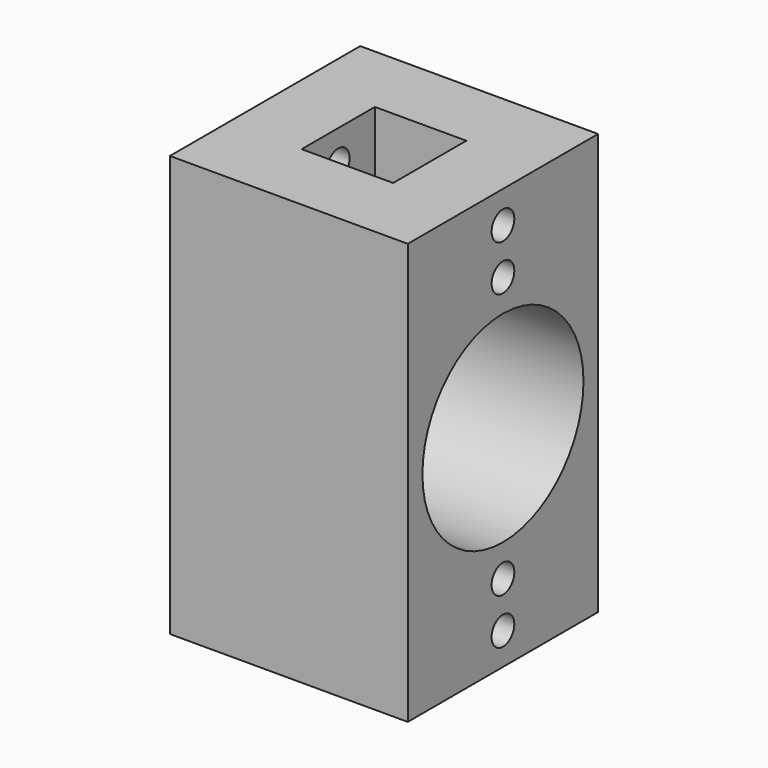
from build123d import *

# Parameters (mm, degrees)
F0_W     = 26
F0_H     = 46
F1_DEPTH = 26
F2_W     = 10
F2_H     = 10
F3_DEPTH = 11
F4_W     = 10
F4_H     = 10
F5_DEPTH = 11
F7_R     = 1.55
F8_DEPTH = 26
F6_R     = 11
F9_DEPTH = 26


with BuildPart() as f1:
    # F0 (on Front) → F1 (new body)
    with BuildSketch(Plane.XZ):
        with Locations((13, 23)):
            Rectangle(F0_W, F0_H)
    extrude(amount=F1_DEPTH)

    # F2 (on face) → F3 (cut)
    with BuildSketch(Plane.XY.offset(46)):
        with Locations((13, -13)):
            Rectangle(F2_W, F2_H)
    extrude(amount=-F3_DEPTH, mode=Mode.SUBTRACT)

    # F4 (on face) → F5 (cut)
    with BuildSketch(Plane(origin=(0, 0, 0), x_dir=(1, 0, 0), z_dir=(0, 0, -1))):
        with Locations((13, 13)):
            Rectangle(F4_W, F4_H)
    extrude(amount=-F5_DEPTH, mode=Mode.SUBTRACT)

    # F7 (on face) → F8 (cut)
    with BuildSketch(Plane(origin=(0, 0, 0), x_dir=(0, -1, 0), z_dir=(-1, 0, 0))):
        with Locations((13, 8.5)):
            Circle(F7_R)
        with Locations((13, 3.5)):
            Circle(F7_R)
        with Locations((13, 42.5)):
            Circle(F7_R)
        with Locations((13, 37.5)):
            Circle(F7_R)
    extrude(amount=-F8_DEPTH, mode=Mode.SUBTRACT)

    # F6 (on face) → F9 (cut)
    with BuildSketch(Plane.YZ.offset(26)):
        with Locations((-13, 23)):
            Circle(F6_R)
    extrude(amount=-F9_DEPTH, mode=Mode.SUBTRACT)


solid = f1.part
